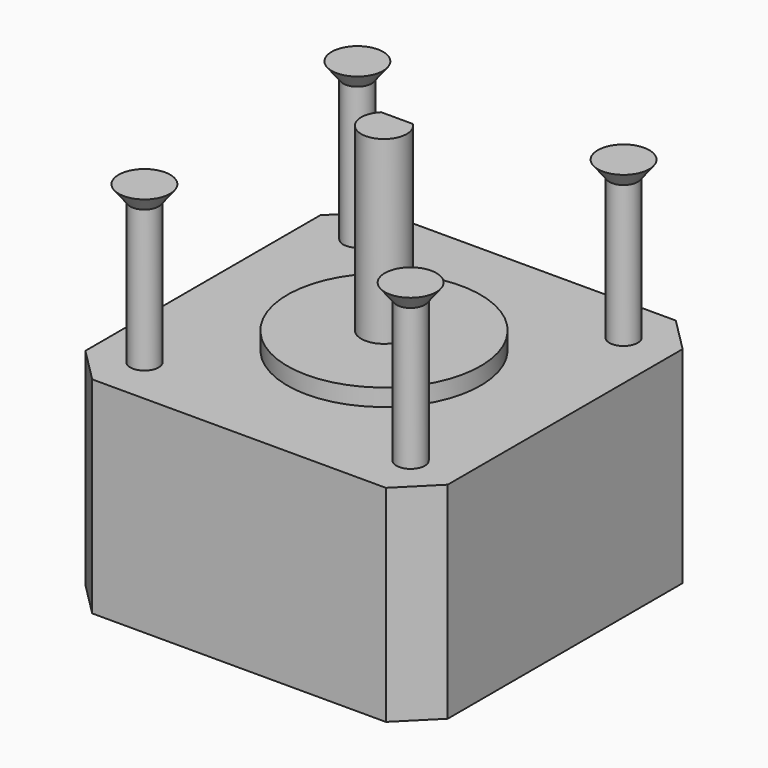
from build123d import *

# Parameters (mm, degrees)
CYLINDER_R           = 2.65
CYLINDER_DEPTH       = 21
CYLINDER001_R        = 11.25
CYLINDER001_DEPTH    = 2
BOX_W                = 42.2
BOX_H                = 42.2
BOX_DEPTH            = 24
CHAMFER_SIZE         = 4
CYLINDER002_R        = 1.65
CYLINDER002_DEPTH    = 16.5
POLARPATTERN_COUNT   = 4
BOX001_W             = 17.85
BOX001_H             = 2.1
BOX001_DEPTH         = 5
BODY_PLACEMENT_ANGLE = 90


with BuildPart() as part:
    # Cylinder → Cylinder (join)
    with BuildSketch(Plane.XY):
        Circle(CYLINDER_R)
    extrude(amount=CYLINDER_DEPTH)

    # Cylinder001 → Cylinder001 (join)
    with BuildSketch(Plane(origin=(0, 0, 0), x_dir=(1, 0, 0), z_dir=(0, 0, -1))):
        Circle(CYLINDER001_R)
    extrude(amount=CYLINDER001_DEPTH)

    # Box → Box (join)
    with BuildSketch(Plane(origin=(-21.1, 21.1, -2), x_dir=(1, 0, 0), z_dir=(0, 0, -1))):
        with Locations((21.1, 21.1)):
            Rectangle(BOX_W, BOX_H)
    extrude(amount=BOX_DEPTH)

    # Chamfer
    chamfer_edges = [part.edges().sort_by_distance(p)[0] for p in [
        (-21.1, 21.1, -14),
        (-21.1, -21.1, -14),
        (21.1, -21.1, -14),
        (21.1, 21.1, -14),
    ]]
    chamfer(chamfer_edges, length=CHAMFER_SIZE)

    # Cylinder002 → Cylinder002 (join)
    with BuildSketch(Plane(origin=(-15.5, -15.5, -2), x_dir=(1, 0, 0), z_dir=(0, 0, 1))):
        Circle(CYLINDER002_R)
    cylinder002 = extrude(amount=CYLINDER002_DEPTH)

    # Cone → Cone (revolve)
    with BuildSketch(Plane(origin=(-15.5, -15.5, 14.5), x_dir=(1, 0, 0), z_dir=(0, -1, 0))):
        Polygon((0, 0), (1.65, 0), (3, 1.75), (0, 1.75), align=None)
    cone = revolve(axis=Axis((-15.5, -15.5, 14.5), (0, 0, 1)))

    # PolarPattern: Cylinder002, Cone ×4 about axis
    polarpattern_axis = Axis((0, 0, 0), (0, 0, 1))
    for i in range(1, POLARPATTERN_COUNT):
        add(cylinder002.rotate(polarpattern_axis, i * 360 / POLARPATTERN_COUNT))
        add(cone.rotate(polarpattern_axis, i * 360 / POLARPATTERN_COUNT))

    # Box001 → Box001 (cut)
    with BuildSketch(Plane(origin=(-4, -2.5, 3.15), x_dir=(0, 0, 1), z_dir=(0, 1, 0))):
        with Locations((8.925, 1.05)):
            Rectangle(BOX001_W, BOX001_H)
    extrude(amount=BOX001_DEPTH, mode=Mode.SUBTRACT)


with BuildPart() as part_1:
    # Body placement: moved
    add(part.part.moved(Location((0, 0, 1))).rotate(Axis((0, 0, 1), (0, 0, -1)), BODY_PLACEMENT_ANGLE))


solid = part_1.part
